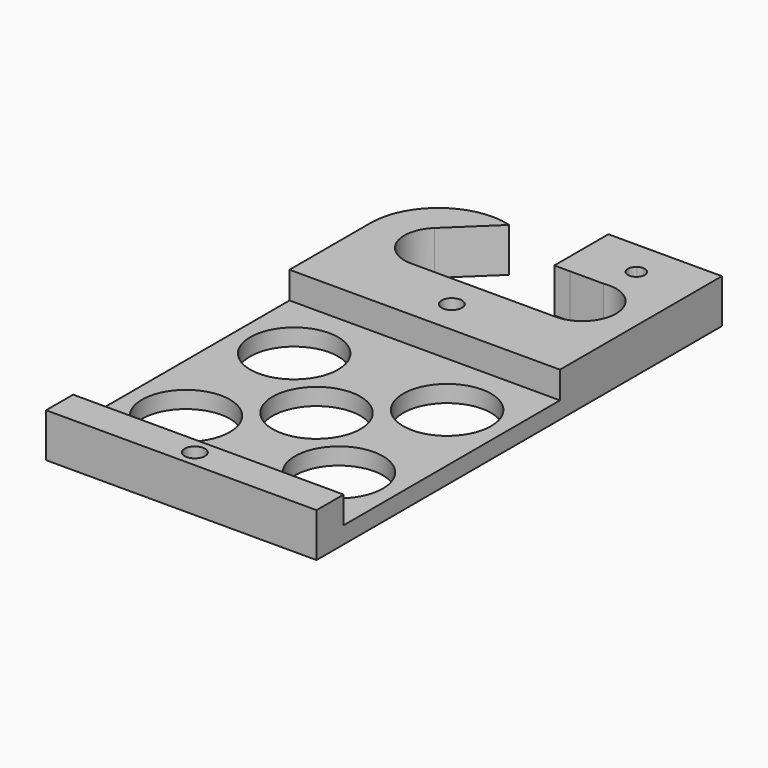
from build123d import *

# Parameters (mm, degrees)
F0_W     = 50.8
F0_H     = 50.8
F0_R     = 8.255
F1_DEPTH = 3.175
F0_R_2   = 1.905
F0_H_2   = 6.35
F2_DEPTH = 8.255


with BuildPart() as f1:
    # F0 (on Top) → F1 (new body)
    with BuildSketch(Plane.XY):
        Rectangle(F0_W, F0_H)
        with Locations((-14.365858, -12.7)):
            Circle(F0_R, mode=Mode.SUBTRACT)
        with Locations((-14.365858, 12.7)):
            Circle(F0_R, mode=Mode.SUBTRACT)
        with Locations((14.365858, -12.7)):
            Circle(F0_R, mode=Mode.SUBTRACT)
        Circle(F0_R, mode=Mode.SUBTRACT)
        with Locations((14.365858, 12.7)):
            Circle(F0_R, mode=Mode.SUBTRACT)
    extrude(amount=F1_DEPTH)

    # F0 (on Top) → F2 (join)
    with BuildSketch(Plane.XY):
        with BuildLine():
            Line((-25.4, 44.450001), (-25.4, 25.4))
            Line((-25.4, 25.4), (25.4, 25.4))
            Line((25.4, 25.4), (25.4, 44.450001))
            Line((25.4, 44.450001), (25.4, 56.639303))
            Line((25.4, 56.639303), (25.4, 63.419538))
            Line((25.4, 63.419538), (12.960542, 63.419538))
            Line((12.960542, 63.419538), (12.38037, 63.419538))
            Line((12.38037, 63.419538), (4.077083, 63.419538))
            Line((4.077083, 63.419538), (4.077083, 50.719538))
            Line((4.077083, 50.719538), (7.025096, 50.719538))
            ThreePointArc((7.025096, 50.719538), (7.03699, 50.719514), (7.048883, 50.719538))
            Line((7.048883, 50.719538), (13.358181, 50.719538))
            ThreePointArc((13.358181, 50.719538), (20.69571, 44.955443), (14.365858, 38.100001))
            Line((14.365858, 38.100001), (-12.7, 38.100001))
            ThreePointArc((-12.7, 38.100001), (-18.5939, 42.086858), (-17.086813, 49.04112))
            Line((-17.086813, 49.04112), (-9.134761, 56.639303))
            ThreePointArc((-9.134761, 56.639303), (-20.316149, 54.612888), (-25.4, 44.450001))
        make_face()
        with Locations((0, 31.750001)):
            Circle(F0_R_2, mode=Mode.SUBTRACT)
        with BuildLine():
            ThreePointArc((15.668355, 57.926005), (14.738542, 55.051803), (13.808728, 57.926005))
            ThreePointArc((13.808728, 57.926005), (14.738542, 58.226803), (15.668355, 57.926005))
        make_face(mode=Mode.SUBTRACT)
        with Locations((0, -28.575)):
            Rectangle(F0_W, F0_H_2)
        with Locations((0, -28.575)):
            Circle(F0_R_2, mode=Mode.SUBTRACT)
    extrude(amount=F2_DEPTH)


solid = f1.part
